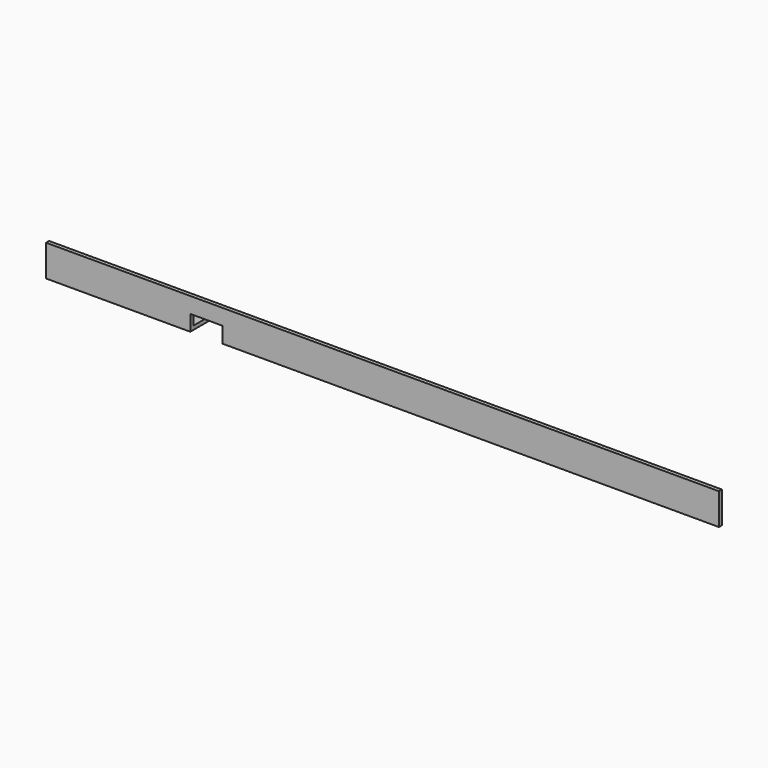
from build123d import *

# Parameters (mm, degrees)
F1_DEPTH = 533.4
F4_DEPTH = 25.4
F6_W     = 22
F6_H     = 3
F7_DEPTH = 38.1


with BuildPart() as f1:
    # F0 (on Right) → F1 (new body)
    with BuildSketch(Plane.YZ):
        Polygon((0, 25), (0, 0), (25, 0), (25, 3), (3, 3), (3, 25), align=None)
    extrude(amount=F1_DEPTH)

    # F3 (on offset) → F4 (cut)
    with BuildSketch(Plane.YZ.offset(114.3)):
        Polygon((0, 12.5), (0, 0), (25, 0), (25, 3), (3, 3), (3, 12.5), align=None)
    extrude(amount=F4_DEPTH, mode=Mode.SUBTRACT)

    # F6 (on offset) → F7 (cut)
    with BuildSketch(Plane.YZ.offset(533.4)):
        with Locations((14, 1.5)):
            Rectangle(F6_W, F6_H)
    extrude(amount=-F7_DEPTH, mode=Mode.SUBTRACT)


solid = f1.part
